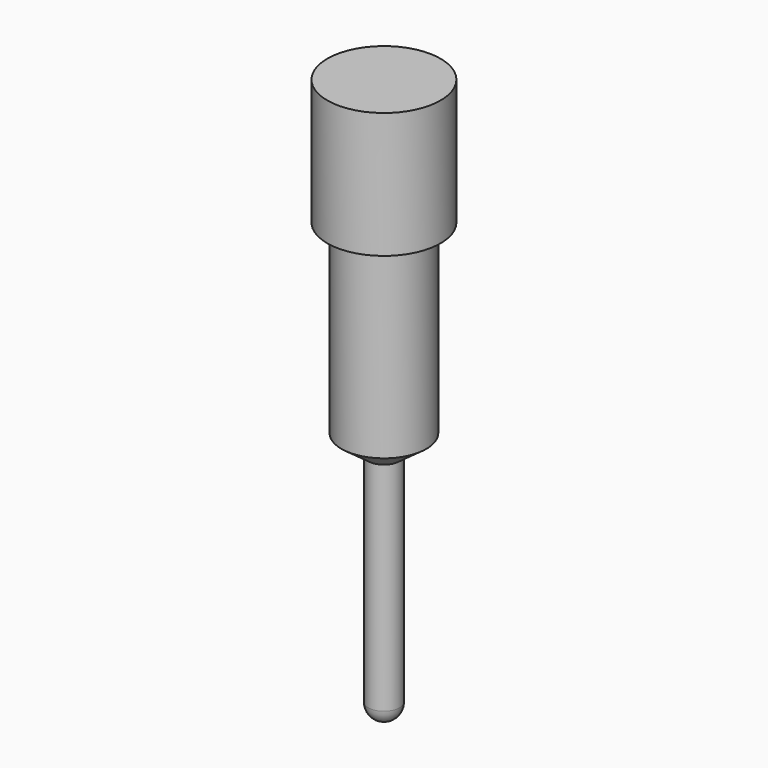
from build123d import *


with BuildPart() as part:
    # Sketch → Revolution (revolve)
    with BuildSketch(Plane.XZ):
        with BuildLine():
            Line((0, 5.26), (-0.9, 5.26))
            Line((-0.9, 5.26), (-0.9, 3.26))
            Line((-0.9, 3.26), (-0.675, 3.26))
            Line((-0.675, 3.26), (-0.675, 0.31))
            Line((-0.675, 0.31), (-0.25, 0))
            Line((-0.25, 0), (-0.25, -3.45))
            ThreePointArc((-0.25, -3.45), (-0.176777, -3.626777), (0, -3.7))
            Line((0, 5.26), (0, -3.7))
        make_face()
    revolve(axis=Axis((0, 0, 0), (0, 0, 1)))


solid = part.part
